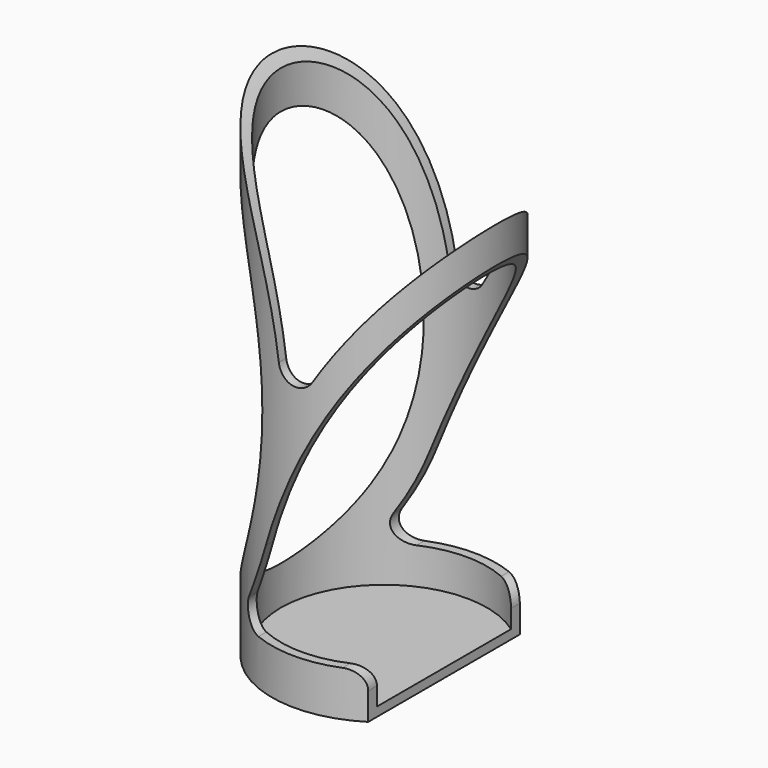
from build123d import *

# Parameters (mm, degrees)
F3_DEPTH = 40


with BuildPart() as f1:
    # F0 (on Front) → F1 (revolve)
    with BuildSketch(Plane.XZ):
        Polygon((-37, -81.5), (0, -81.5), (0, -78.5), (-34, -78.5), (-34, 81.5), (-37, 81.5), align=None)
    revolve(axis=Axis((0, 0, -80), (0, 0, -1)))

    # F2 (on Front) → F3 (intersect, symmetric)
    with BuildSketch(Plane.XZ):
        with BuildLine():
            ThreePointArc((-14.010081, -66.5), (-19.187648, -63.531964), (-19.242812, -57.564268))
            ThreePointArc((-19.242812, -57.564268), (-14.524884, -48.199875), (-10.65949, -38.452598))
            ThreePointArc((-10.65949, -38.452598), (9.214842, 5.034514), (37, 43.94599))
            Line((37, 43.94599), (37, 55.896732))
            ThreePointArc((37, 55.896732), (20.278527, 36.063914), (5.6319, 14.65306))
            ThreePointArc((5.6319, 14.65306), (-0.691911, 11.910416), (-5.421801, 16.924479))
            ThreePointArc((-5.421801, 16.924479), (-16.158191, 51.683074), (-37, 81.5))
            Line((-37, 81.5), (-37, 69.45407))
            ThreePointArc((-37, 69.45407), (-12.198094, 0), (-37, -69.45407))
            Line((-37, -69.45407), (-37, -81.5))
            Line((-37, -81.5), (19.800553, -81.5))
            Line((19.800553, -81.5), (19.800553, -72.5))
            ThreePointArc((19.800553, -72.5), (18.043193, -68.257359), (13.800553, -66.5))
            Line((13.800553, -66.5), (-14.010081, -66.5))
        make_face()
    extrude(amount=F3_DEPTH, both=True, mode=Mode.INTERSECT)


solid = f1.part
